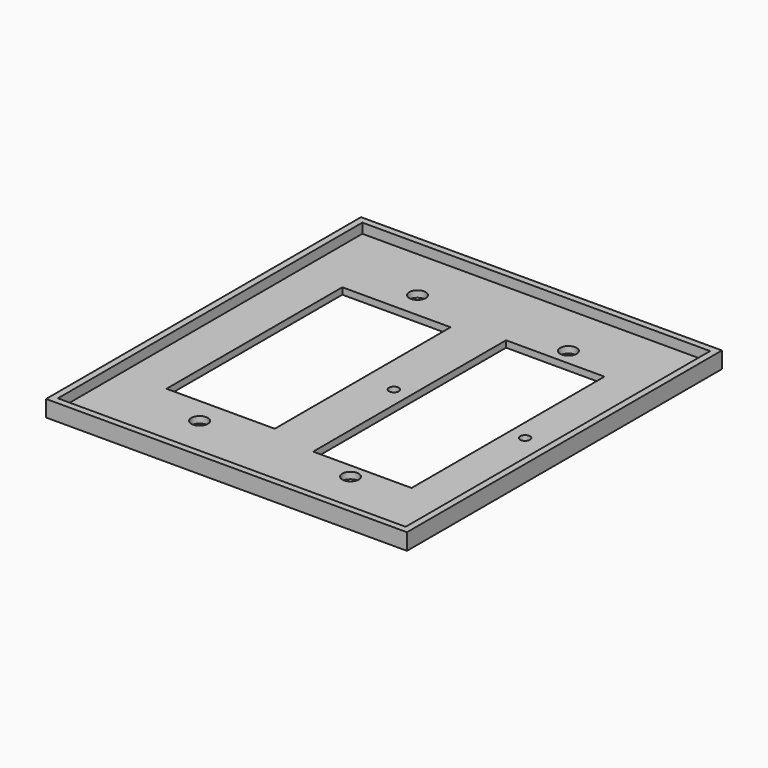
from build123d import *

# Parameters (mm, degrees)
SKETCH_W        = 110
SKETCH_H        = 120
SKETCH_R        = 2.5
PAD_DEPTH       = 5
SKETCH001_W     = 106
SKETCH001_H     = 116
POCKET_DEPTH    = 3
SKETCH002_R     = 1.5
SKETCH002_W     = 33
SKETCH002_H     = 67
SKETCH002_W_2   = 30
SKETCH002_H_2   = 73.5
POCKET001_DEPTH = 5.001


with BuildPart() as part:
    # Sketch → Pad (new body)
    with BuildSketch(Plane.XY):
        with Locations((55, 60)):
            Rectangle(SKETCH_W, SKETCH_H)
        with Locations((32, 101.5)):
            Circle(SKETCH_R, mode=Mode.SUBTRACT)
        with Locations((78, 101.5)):
            Circle(SKETCH_R, mode=Mode.SUBTRACT)
        with Locations((32, 18.5)):
            Circle(SKETCH_R, mode=Mode.SUBTRACT)
        with Locations((78, 18.5)):
            Circle(SKETCH_R, mode=Mode.SUBTRACT)
    extrude(amount=PAD_DEPTH)

    # Sketch001 → Pocket (cut)
    with BuildSketch(Plane.XY.offset(5)):
        with Locations((55, 60)):
            Rectangle(SKETCH001_W, SKETCH001_H)
    extrude(amount=-POCKET_DEPTH, mode=Mode.SUBTRACT)

    # Sketch002 → Pocket001 (cut, through all)
    with BuildSketch(Plane(origin=(0, 0, 0), x_dir=(1, 0, 0), z_dir=(0, 0, -1))):
        with Locations((58, -60)):
            Circle(SKETCH002_R)
        with Locations((98, -60)):
            Circle(SKETCH002_R)
        with Locations((32, -60)):
            Rectangle(SKETCH002_W, SKETCH002_H)
        with Locations((78, -59.75)):
            Rectangle(SKETCH002_W_2, SKETCH002_H_2)
    extrude(amount=-POCKET001_DEPTH, mode=Mode.SUBTRACT)


solid = part.part
